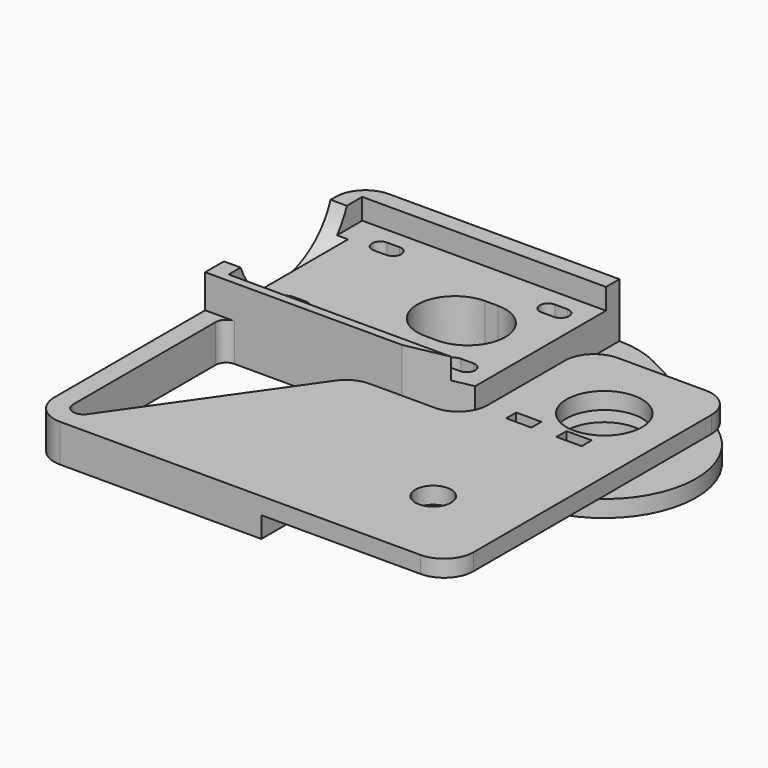
from build123d import *

# Parameters (mm, degrees)
SKETCH023_R       = 4.25
SKETCH023_R_2     = 9
SKETCH023_W       = 6
SKETCH023_H       = 3
PAD013_DEPTH      = 8
PAD013_DEPTH_BACK = 9
POCKET010_DEPTH   = 5.001
SKETCH028_R       = 17
POCKET011_DEPTH   = 6.501
POCKET012_DEPTH   = 8.001
POCKET013_DEPTH   = 5.001
SKETCH031_R       = 9
PAD014_DEPTH      = 4
POCKET014_DEPTH   = 9.001


with BuildPart() as part:
    # Sketch023 → Pad013 (new body, two sides)
    with BuildSketch(Plane.XY) as pad013_sk:
        with BuildLine():
            Line((20, 58), (20, -13))
            ThreePointArc((13, -20), (17.949747, -17.949747), (20, -13))
            Line((13, -20), (-73, -20))
            ThreePointArc((-80, -13), (-77.949747, -17.949747), (-73, -20))
            Line((-80, -13), (-80, 71))
            ThreePointArc((-73, 78), (-77.949747, 75.949747), (-80, 71))
            Line((-73, 78), (-18, 78))
            Line((-18, 35), (-18, 78))
            Line((-33, 32), (-18, 35))
            Line((-73, 32), (-33, 32))
            ThreePointArc((-73, 32), (-74.767767, 31.267767), (-75.5, 29.5))
            Line((-75.5, 29.5), (-75.5, -13))
            ThreePointArc((-75.5, -13), (-73.751764, -15.384292), (-70.95212, -14.433941))
            Line((-70.95212, -14.433941), (-43.329649, 25.015035))
            ThreePointArc((-37.595585, 28), (-40.827825, 27.209076), (-43.329649, 25.015035))
            Line((-37.595585, 28), (-22, 28))
            ThreePointArc((-22, 28), (-17.050253, 30.050253), (-15, 35))
            Line((-15, 35), (-15, 58))
            ThreePointArc((-8, 65), (-12.949747, 62.949747), (-15, 58))
            Line((-8, 65), (13, 65))
            ThreePointArc((20, 58), (17.949747, 62.949747), (13, 65))
        make_face()
        Circle(SKETCH023_R, mode=Mode.SUBTRACT)
        with Locations((4, 46)):
            Circle(SKETCH023_R_2, mode=Mode.SUBTRACT)
        with BuildLine():
            ThreePointArc((-38, 63), (-47, 54), (-38, 45))
            Line((-38, 45), (-35, 45))
            ThreePointArc((-35, 45), (-26, 54), (-35, 63))
            Line((-35, 63), (-38, 63))
        make_face(mode=Mode.SUBTRACT)
        with BuildLine():
            ThreePointArc((-67, 70), (-69, 68), (-67, 66))
            Line((-67, 66), (-64, 66))
            ThreePointArc((-64, 66), (-62, 68), (-64, 70))
            Line((-64, 70), (-67, 70))
        make_face(mode=Mode.SUBTRACT)
        with BuildLine():
            ThreePointArc((-67, 42), (-69, 40), (-67, 38))
            Line((-67, 38), (-64, 38))
            ThreePointArc((-64, 38), (-62, 40), (-64, 42))
            Line((-64, 42), (-67, 42))
        make_face(mode=Mode.SUBTRACT)
        with Locations((6, 34.5)):
            Rectangle(SKETCH023_W, SKETCH023_H, mode=Mode.SUBTRACT)
        with Locations((-6, 34.5)):
            Rectangle(SKETCH023_W, SKETCH023_H, mode=Mode.SUBTRACT)
        with BuildLine():
            ThreePointArc((-27, 70), (-29, 68), (-27, 66))
            Line((-27, 66), (-24, 66))
            ThreePointArc((-24, 66), (-22, 68), (-24, 70))
            Line((-24, 70), (-27, 70))
        make_face(mode=Mode.SUBTRACT)
        with BuildLine():
            ThreePointArc((-27, 42), (-29, 40), (-27, 38))
            Line((-27, 38), (-24, 38))
            ThreePointArc((-24, 38), (-22, 40), (-24, 42))
            Line((-24, 42), (-27, 42))
        make_face(mode=Mode.SUBTRACT)
    extrude(amount=PAD013_DEPTH)
    extrude(pad013_sk.sketch, amount=-PAD013_DEPTH_BACK)

    # Sketch025 → Pocket010 (cut, through all)
    with BuildSketch(Plane.XY.offset(3)):
        Polygon((-76.145312, 74), (-16.940075, 74), (-16.940075, 34), (-76, 34), align=None)
    extrude(amount=POCKET010_DEPTH, mode=Mode.SUBTRACT)

    # Sketch028 → Pocket011 (cut, through all)
    with BuildSketch(Plane.YZ.offset(-73.5)):
        with Locations((53.5, 14)):
            Circle(SKETCH028_R)
    extrude(amount=-POCKET011_DEPTH, mode=Mode.SUBTRACT)

    # Sketch029 → Pocket012 (cut, through all)
    with BuildSketch(Plane.XY):
        Polygon((-85.091896, 32), (-85.091896, -28.781052), (33.933025, -28.781052), (33.933025, 68.141579), (-16, 68.141579), (-16, 32), align=None)
    extrude(amount=POCKET012_DEPTH, mode=Mode.SUBTRACT)

    # Sketch030 → Pocket013 (cut, through all)
    with BuildSketch(Plane.XY.offset(-4)):
        Polygon((30.837446, 73.192078), (-15.70892, 73.192078), (-15.70892, 34.728077), (-25, 32), (-25, -27.823572), (30.837446, -27.823572), align=None)
    extrude(amount=-POCKET013_DEPTH, mode=Mode.SUBTRACT)

    # Sketch031 → Pad014 (join)
    with BuildSketch(Plane.XY.offset(-5)):
        with BuildLine():
            ThreePointArc((-12.961917, 32.170317), (21.901003, 28.600337), (15.969569, 63.139967))
            Line((-7.855077, 75.521284), (15.969569, 63.139967))
            ThreePointArc((-7.855077, 75.521284), (-12.778326, 77.371339), (-18, 78))
            Line((-18, 78), (-18, 35))
            ThreePointArc((-12.961917, 32.170317), (-15.110823, 34.244164), (-18, 35))
        make_face()
        with Locations((5.824645, 43.618683)):
            Circle(SKETCH031_R, mode=Mode.SUBTRACT)
    extrude(amount=-PAD014_DEPTH)

    # Sketch032 → Pocket014 (cut, through all)
    with BuildSketch(Plane.XY):
        with BuildLine():
            ThreePointArc((-67, 44.5), (-71.5, 40), (-67, 35.5))
            Line((-67, 35.5), (-64, 35.5))
            ThreePointArc((-64, 35.5), (-59.5, 40), (-64, 44.5))
            Line((-64, 44.5), (-67, 44.5))
        make_face()
        with BuildLine():
            ThreePointArc((-67, 72.5), (-71.5, 68), (-67, 63.5))
            Line((-67, 63.5), (-64, 63.5))
            ThreePointArc((-64, 63.5), (-59.5, 68), (-64, 72.5))
            Line((-64, 72.5), (-67, 72.5))
        make_face()
        with BuildLine():
            ThreePointArc((-27, 72.5), (-31.5, 68), (-27, 63.5))
            Line((-27, 63.5), (-24, 63.5))
            ThreePointArc((-24, 63.5), (-19.5, 68), (-24, 72.5))
            Line((-24, 72.5), (-27, 72.5))
        make_face()
        with BuildLine():
            ThreePointArc((-27, 44.5), (-31.5, 40), (-27, 35.5))
            Line((-27, 35.5), (-24, 35.5))
            ThreePointArc((-24, 35.5), (-19.5, 40), (-24, 44.5))
            Line((-24, 44.5), (-27, 44.5))
        make_face()
    extrude(amount=-POCKET014_DEPTH, mode=Mode.SUBTRACT)


with BuildPart() as part_1:
    # Body009 placement: moved
    add(part.part.moved(Location((0, 0, -28.5))))


solid = part_1.part
